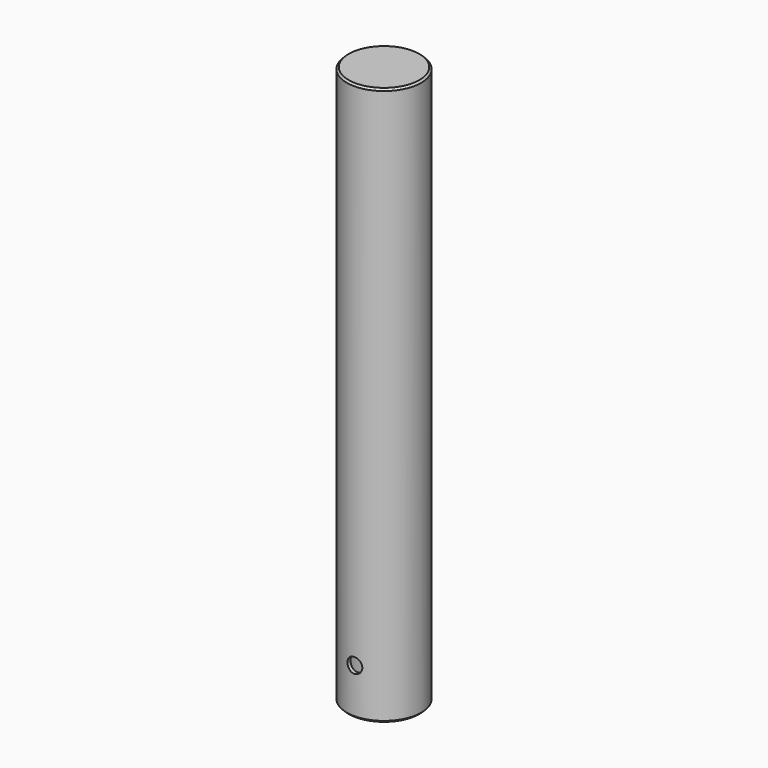
from build123d import *

# Parameters (mm, degrees)
F3_SIZE  = 1
F4_SIZE  = 1
F6_R     = 4
F7_DEPTH = 40


with BuildPart() as f2:
    # F0 (on Front) → F2 (revolve)
    with BuildSketch(Plane.XZ):
        Polygon((0, 2), (0, 0), (20, 0), (20, 300), (0, 300), (0, 298), (18, 298), (18, 2), align=None)
    revolve(axis=Axis((0, 0, 152.335405), (0, 0, 1)))

    # F3
    f3_edges = [f2.edges().sort_by_distance(p)[0] for p in [
        (-20, 0, 300),
    ]]
    chamfer(f3_edges, length=F3_SIZE)

    # F4
    f4_edges = [f2.edges().sort_by_distance(p)[0] for p in [
        (-20, 0, 0),
    ]]
    chamfer(f4_edges, length=F4_SIZE)

    # F6 (on offset) → F7 (cut)
    with BuildSketch(Plane.XZ.offset(20)):
        with Locations((0, 25)):
            Circle(F6_R)
    extrude(amount=-F7_DEPTH, mode=Mode.SUBTRACT)


solid = f2.part
